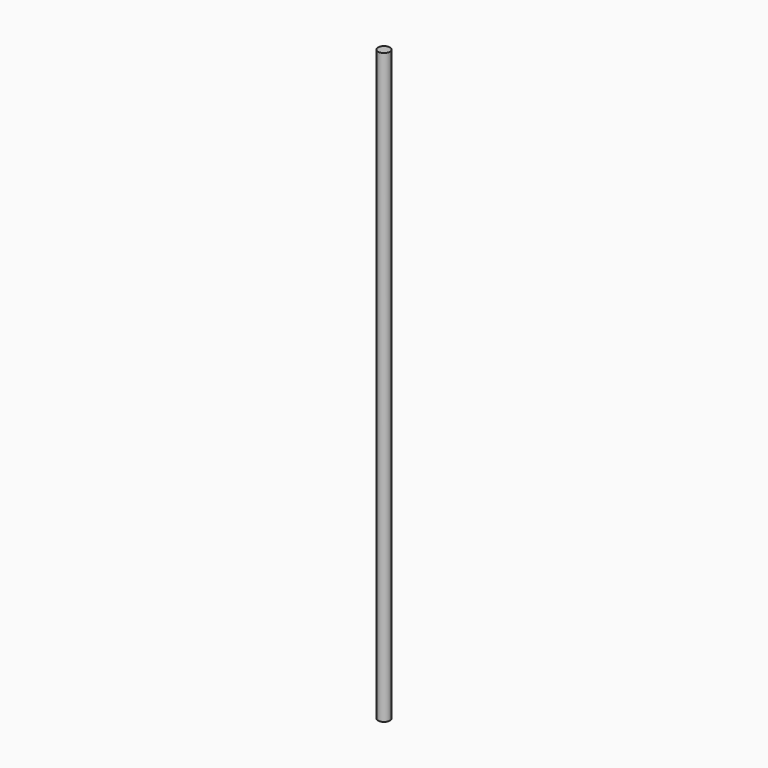
from build123d import *

# Parameters (mm, degrees)
SKETCH_R  = 5
PAD_DEPTH = 498


with BuildPart() as part:
    # Sketch → Pad (new body)
    with BuildSketch(Plane.XY):
        Circle(SKETCH_R)
    extrude(amount=PAD_DEPTH)


solid = part.part
